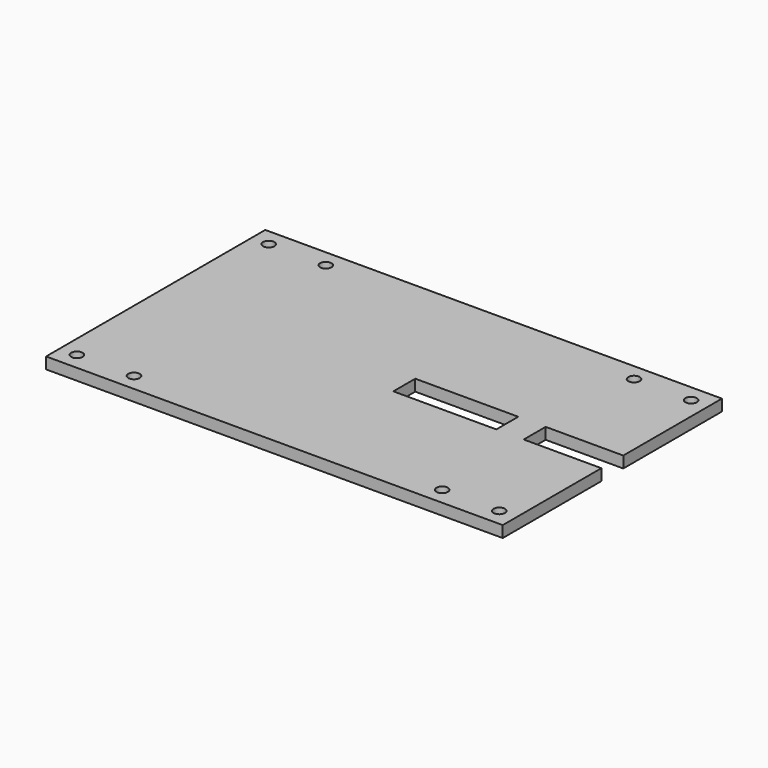
from build123d import *

# Parameters (mm, degrees)
F0_R     = 1.5875
F0_W     = 28.648101
F0_H     = 7.62
F1_DEPTH = 3.175


with BuildPart() as f1:
    # F0 (on Top) → F1 (new body)
    with BuildSketch(Plane.XY):
        with Locations((4.7625, 4.7625)):
            Circle(F0_R)
        with BuildLine():
            ThreePointArc((22.225, 4.7625), (20.6375, 6.35), (19.05, 4.7625))
            ThreePointArc((19.05, 4.7625), (20.6375, 3.175), (22.225, 4.7625))
        make_face()
        with Locations((106.3625, 4.7625)):
            Circle(F0_R)
        with Locations((106.3625, 71.4375)):
            Circle(F0_R)
        with BuildLine():
            ThreePointArc((22.225, 71.4375), (20.6375, 73.025), (19.05, 71.4375))
            ThreePointArc((19.05, 71.4375), (20.6375, 69.85), (22.225, 71.4375))
        make_face()
        with Locations((4.7625, 71.4375)):
            Circle(F0_R)
        with BuildLine():
            Line((0, 76.2), (0, 0))
            Line((0, 0), (12.7, 0))
            Line((12.7, 0), (114.3, 0))
            Line((114.3, 0), (114.3, 4.7625))
            Line((114.3, 4.7625), (120.65, 4.7625))
            ThreePointArc((120.65, 4.7625), (122.2375, 6.35), (123.825, 4.7625))
            Line((123.825, 4.7625), (127, 4.7625))
            Line((127, 4.7625), (127, 34.29))
            Line((127, 34.29), (105.41, 34.29))
            Line((105.41, 34.29), (105.41, 41.91))
            Line((105.41, 41.91), (127, 41.91))
            Line((127, 41.91), (127, 71.4375))
            Line((127, 71.4375), (123.825, 71.4375))
            ThreePointArc((123.825, 71.4375), (122.2375, 69.85), (120.65, 71.4375))
            Line((120.65, 71.4375), (114.3, 71.4375))
            Line((114.3, 71.4375), (114.3, 76.2))
            Line((114.3, 76.2), (12.7, 76.2))
            Line((12.7, 76.2), (0, 76.2))
        make_face()
        with Locations((4.7625, 4.7625)):
            Circle(F0_R, mode=Mode.SUBTRACT)
        with BuildLine():
            ThreePointArc((22.225, 4.7625), (20.6375, 3.175), (19.05, 4.7625))
            ThreePointArc((19.05, 4.7625), (20.6375, 6.35), (22.225, 4.7625))
        make_face(mode=Mode.SUBTRACT)
        with Locations((106.3625, 4.7625)):
            Circle(F0_R, mode=Mode.SUBTRACT)
        with Locations((83.465949, 38.1)):
            Rectangle(F0_W, F0_H, mode=Mode.SUBTRACT)
        with Locations((4.7625, 71.4375)):
            Circle(F0_R, mode=Mode.SUBTRACT)
        with BuildLine():
            ThreePointArc((22.225, 71.4375), (20.6375, 69.85), (19.05, 71.4375))
            ThreePointArc((19.05, 71.4375), (20.6375, 73.025), (22.225, 71.4375))
        make_face(mode=Mode.SUBTRACT)
        with Locations((106.3625, 71.4375)):
            Circle(F0_R, mode=Mode.SUBTRACT)
        with BuildLine():
            Line((114.3, 4.7625), (114.3, 0))
            Line((114.3, 0), (127, 0))
            Line((127, 0), (127, 4.7625))
            Line((127, 4.7625), (123.825, 4.7625))
            ThreePointArc((123.825, 4.7625), (122.2375, 3.175), (120.65, 4.7625))
            Line((120.65, 4.7625), (114.3, 4.7625))
        make_face()
        with BuildLine():
            Line((127, 76.2), (114.3, 76.2))
            Line((114.3, 76.2), (114.3, 71.4375))
            Line((114.3, 71.4375), (120.65, 71.4375))
            ThreePointArc((120.65, 71.4375), (122.2375, 73.025), (123.825, 71.4375))
            Line((123.825, 71.4375), (127, 71.4375))
            Line((127, 71.4375), (127, 76.2))
        make_face()
    extrude(amount=-F1_DEPTH)


solid = f1.part
